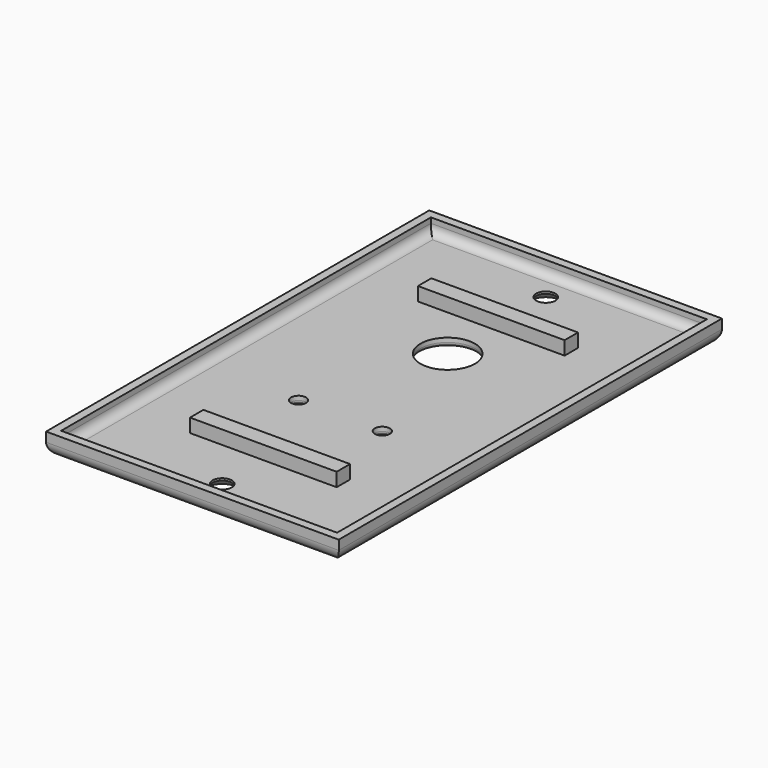
from build123d import *

# Parameters (mm, degrees)
SKETCH_W      = 69.85
SKETCH_H      = 114.3
SKETCH_R      = 2.3
SKETCH_R_2    = 6.5
SKETCH_R_3    = 1.8
PAD_DEPTH     = 5.25
FILLET_R      = 1
CHAMFER_SIZE  = 1.5
FILLET001_R   = 1
FILLET002_R   = 3
SKETCH001_W   = 65.85
SKETCH001_H   = 110.3
SKETCH001_W_2 = 35
SKETCH001_H_2 = 4
POCKET_DEPTH  = 3.25
FILLET003_R   = 2


with BuildPart() as part:
    # Sketch → Pad (new body)
    with BuildSketch(Plane.XY):
        Rectangle(SKETCH_W, SKETCH_H)
        with Locations((0, 48.26)):
            Circle(SKETCH_R, mode=Mode.SUBTRACT)
        with Locations((0, -48.26)):
            Circle(SKETCH_R, mode=Mode.SUBTRACT)
        with Locations((0, 19)):
            Circle(SKETCH_R_2, mode=Mode.SUBTRACT)
        with Locations((-10, -13)):
            Circle(SKETCH_R_3, mode=Mode.SUBTRACT)
        with Locations((10, -13)):
            Circle(SKETCH_R_3, mode=Mode.SUBTRACT)
    extrude(amount=PAD_DEPTH)

    # Fillet
    fillet_edges = [part.edges().sort_by_distance(p)[0] for p in [
        (-6.5, 19, 0),
    ]]
    fillet(fillet_edges, radius=FILLET_R)

    # Chamfer
    chamfer_edges = [part.edges().sort_by_distance(p)[0] for p in [
        (-2.3, 48.26, 0),
        (-2.3, -48.26, 0),
    ]]
    chamfer(chamfer_edges, length=CHAMFER_SIZE)

    # Fillet001
    fillet001_edges = [part.edges().sort_by_distance(p)[0] for p in [
        (-11.8, -13, 0),
        (8.2, -13, 0),
    ]]
    fillet(fillet001_edges, radius=FILLET001_R)

    # Fillet002
    fillet002_edges = [part.edges().sort_by_distance(p)[0] for p in [
        (0, 57.15, 0),
        (-34.925, 0, 0),
        (34.925, 0, 0),
        (0, -57.15, 0),
    ]]
    fillet(fillet002_edges, radius=FILLET002_R)

    # Sketch001 (on Face20 of Fillet002) → Pocket (cut)
    with BuildSketch(Plane.XY.offset(5.25)):
        Rectangle(SKETCH001_W, SKETCH001_H)
        with Locations((0, 34)):
            Rectangle(SKETCH001_W_2, SKETCH001_H_2, mode=Mode.SUBTRACT)
        with Locations((0, -34)):
            Rectangle(SKETCH001_W_2, SKETCH001_H_2, mode=Mode.SUBTRACT)
    extrude(amount=-POCKET_DEPTH, mode=Mode.SUBTRACT)

    # Fillet003
    fillet003_edges = [part.edges().sort_by_distance(p)[0] for p in [
        (-32.925, 0, 2),
        (0, 55.15, 2),
        (32.925, 0, 2),
        (0, -55.15, 2),
    ]]
    fillet(fillet003_edges, radius=FILLET003_R)


solid = part.part
